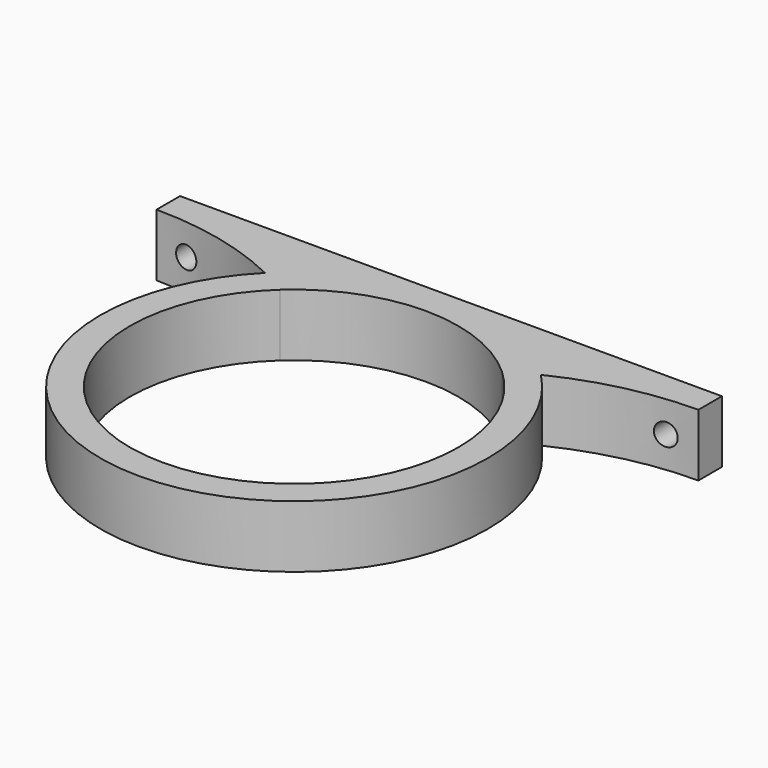
from build123d import *

# Parameters (mm, degrees)
F1_DEPTH = 12.7
F2_R     = 2.25
F3_DEPTH = 6.6013633093


with BuildPart() as f1:
    # F0 (on Top) → F1 (new body)
    with BuildSketch(Plane.XY):
        with BuildLine():
            ThreePointArc((-20.1342269146, 33.9832739234), (0, 39.5), (20.1342269146, 33.9832739234))
            Line((20.1342269146, 33.9832739234), (55.245, 33.9832739234))
            Line((55.245, 33.9832739234), (55.245, 39.9832739234))
            Line((55.245, 39.9832739234), (-55.245, 39.9832739234))
            Line((-55.245, 39.9832739234), (-55.245, 33.9832739234))
            Line((-55.245, 33.9832739234), (-20.1342269146, 33.9832739234))
        make_face()
        with BuildLine():
            ThreePointArc((-55.245, 33.9832739234), (-41.3321264733, 32.3993580195), (-28.1313099624, 27.7286746852))
            ThreePointArc((-28.1313099624, 27.7286746852), (-24.3345539391, 31.1139757117), (-20.1342269146, 33.9832739234))
            Line((-20.1342269146, 33.9832739234), (-55.245, 33.9832739234))
        make_face()
        with BuildLine():
            ThreePointArc((-22.6350105135, 24.6962810774), (0, 33.5), (22.6350105135, 24.6962810774))
            ThreePointArc((22.6350105135, 24.6962810774), (25.3446935346, 26.2821998724), (28.1313099624, 27.7286746852))
            ThreePointArc((28.1313099624, 27.7286746852), (24.3345539391, 31.1139757117), (20.1342269146, 33.9832739234))
            Line((20.1342269146, 33.9832739234), (-20.1342269146, 33.9832739234))
            ThreePointArc((-20.1342269146, 33.9832739234), (-24.3345539391, 31.1139757117), (-28.1313099624, 27.7286746852))
            ThreePointArc((-28.1313099624, 27.7286746852), (-25.3446935346, 26.2821998724), (-22.6350105135, 24.6962810774))
        make_face()
        with BuildLine():
            Line((-20.1342269146, 33.9832739234), (20.1342269146, 33.9832739234))
            ThreePointArc((20.1342269146, 33.9832739234), (0, 39.5), (-20.1342269146, 33.9832739234))
        make_face()
        with BuildLine():
            ThreePointArc((20.1342269146, 33.9832739234), (24.3345539391, 31.1139757117), (28.1313099624, 27.7286746852))
            ThreePointArc((28.1313099624, 27.7286746852), (41.3321264733, 32.3993580195), (55.245, 33.9832739234))
            Line((55.245, 33.9832739234), (20.1342269146, 33.9832739234))
        make_face()
        with BuildLine():
            ThreePointArc((22.6350105135, 24.6962810774), (30.6636825267, 13.4903140771), (33.5, 0))
            ThreePointArc((33.5, 0), (-13.4903140771, -30.6636825267), (-22.6350105135, 24.6962810774))
            ThreePointArc((-22.6350105135, 24.6962810774), (-25.3446935346, 26.2821998724), (-28.1313099624, 27.7286746852))
            ThreePointArc((-28.1313099624, 27.7286746852), (-14.9843794747, -36.547481059), (39.5, 0))
            ThreePointArc((39.5, 0), (36.547481059, 14.9843794747), (28.1313099624, 27.7286746852))
            ThreePointArc((28.1313099624, 27.7286746852), (25.3446935346, 26.2821998724), (22.6350105135, 24.6962810774))
        make_face()
    extrude(amount=F1_DEPTH)

    # F2 (on face) → F3 (cut, through all)
    with BuildSketch(Plane(origin=(0, 39.9832739234, 0), x_dir=(-1, 0, 0), z_dir=(0, 1, 0))):
        with Locations((-48.895, 6.35)):
            Circle(F2_R)
        with Locations((48.895, 6.35)):
            Circle(F2_R)
    extrude(amount=-F3_DEPTH, mode=Mode.SUBTRACT)


solid = f1.part
